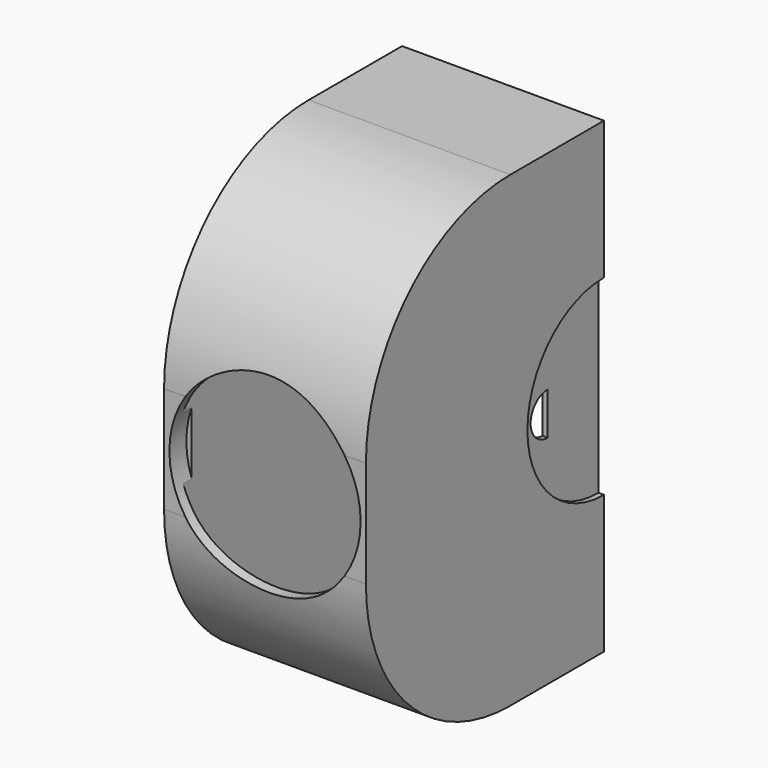
from build123d import *

# Parameters (mm, degrees)
F2_W      = 19
F2_H      = 44
F3_DEPTH  = 23
F3_FACE_W = 19
F3_FACE_H = 44
F4_DEPTH  = 5
F5_R      = 17
F6_T      = -1
F7_R      = 9
F8_DEPTH  = 1
F9_R      = 9
F10_DEPTH = 0.5
F11_R     = 9
F12_DEPTH = 0.5
F14_DEPTH = 25


with BuildPart() as f3:
    # F2 (on offset) → F3 (new body)
    with BuildSketch(Plane.XZ.offset(-25)):
        Rectangle(F2_W, F2_H)
    extrude(amount=F3_DEPTH)

    # F3_face (on face) → F4 (join)
    with BuildSketch(Plane(origin=(0, 25, 0), x_dir=(1, 0, 0), z_dir=(0, 1, 0))):
        Rectangle(F3_FACE_W, F3_FACE_H)
    extrude(amount=F4_DEPTH)

    # F5
    f5_edges = [f3.edges().sort_by_distance(p)[0] for p in [
        (0, 2, 22),
        (0, 2, -22),
    ]]
    fillet(f5_edges, radius=F5_R)

    # F6
    f6_openings = [f3.faces().sort_by_distance(p)[0] for p in [
        (0, 30, 0),
    ]]
    offset(amount=F6_T, openings=f6_openings)

    # F7 (on face) → F8 (cut, symmetric)
    with BuildSketch(Plane(origin=(0, 3, 0), x_dir=(-1, 0, 0), z_dir=(0, 1, 0))):
        Circle(F7_R)
    extrude(amount=F8_DEPTH, both=True, mode=Mode.SUBTRACT)

    # F9 (on face) → F10 (cut)
    with BuildSketch(Plane.YZ.offset(9.5)):
        with Locations((30, 0)):
            Circle(F9_R)
    extrude(amount=-F10_DEPTH, mode=Mode.SUBTRACT)

    # F11 (on face) → F12 (cut)
    with BuildSketch(Plane(origin=(-9.5, 0, 0), x_dir=(0, -1, 0), z_dir=(-1, 0, 0))):
        with Locations((-30, 0)):
            Circle(F11_R)
    extrude(amount=-F12_DEPTH, mode=Mode.SUBTRACT)

    # F13 (on face) → F14 (cut)
    with BuildSketch(Plane(origin=(-9, 0, 0), x_dir=(0, -1, 0), z_dir=(-1, 0, 0))):
        with BuildLine():
            Line((-24, 2), (-24, -2))
            ThreePointArc((-24, -2), (-22, 0), (-24, 2))
        make_face()
    extrude(amount=-F14_DEPTH, mode=Mode.SUBTRACT)


solid = f3.part
